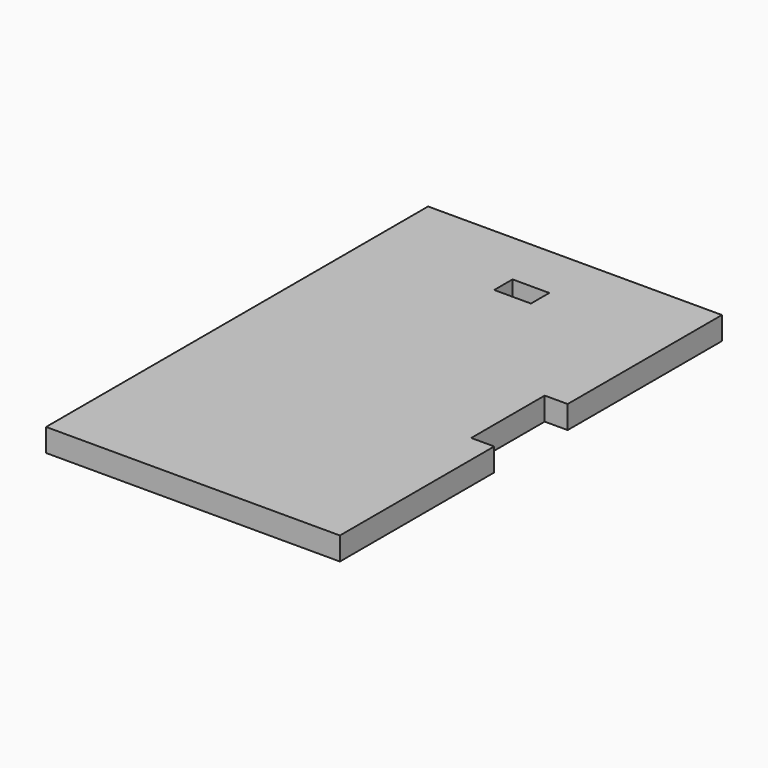
from build123d import *

# Parameters (mm, degrees)
F0_W     = 64
F0_H     = 104
F1_DEPTH = 5
F2_W     = 5
F2_H     = 20
F3_DEPTH = 25
F5_W     = 8
F5_H     = 25
F6_DEPTH = 25
F8_DEPTH = 25


with BuildPart() as f1:
    # F0 (on Top) → F1 (new body)
    with BuildSketch(Plane.XY):
        Rectangle(F0_W, F0_H)
    extrude(amount=F1_DEPTH)

    # F2 (on face) → F3 (cut)
    with BuildSketch(Plane.XY.offset(5)):
        with Locations((29.5, 0)):
            Rectangle(F2_W, F2_H)
    extrude(amount=-F3_DEPTH, mode=Mode.SUBTRACT)

    # F5 (on face) → F6 (cut)
    with BuildSketch(Plane.XY.offset(5)):
        with Locations((0, 27.5)):
            Rectangle(F5_W, F5_H)
    extrude(amount=-F6_DEPTH, mode=Mode.SUBTRACT)

    # F7 (on face) → F8 (join)
    with BuildSketch(Plane(origin=(4, 0, 0), x_dir=(0, -1, 0), z_dir=(-1, 0, 0))):
        with BuildLine():
            Line((-15, 5), (-35, 5))
            add(Edge.make_bspline(
                [(-35, 5), (-27.9895598193, 1.8046537073), (-18.7225920955, 0.0081415234), (-15, 0)],
                knots=[0, 0, 0, 0, 20.6155281281, 20.6155281281, 20.6155281281, 20.6155281281], degree=3))
            Line((-15, 0), (-15, 5))
        make_face()
    extrude(amount=F8_DEPTH)


solid = f1.part
